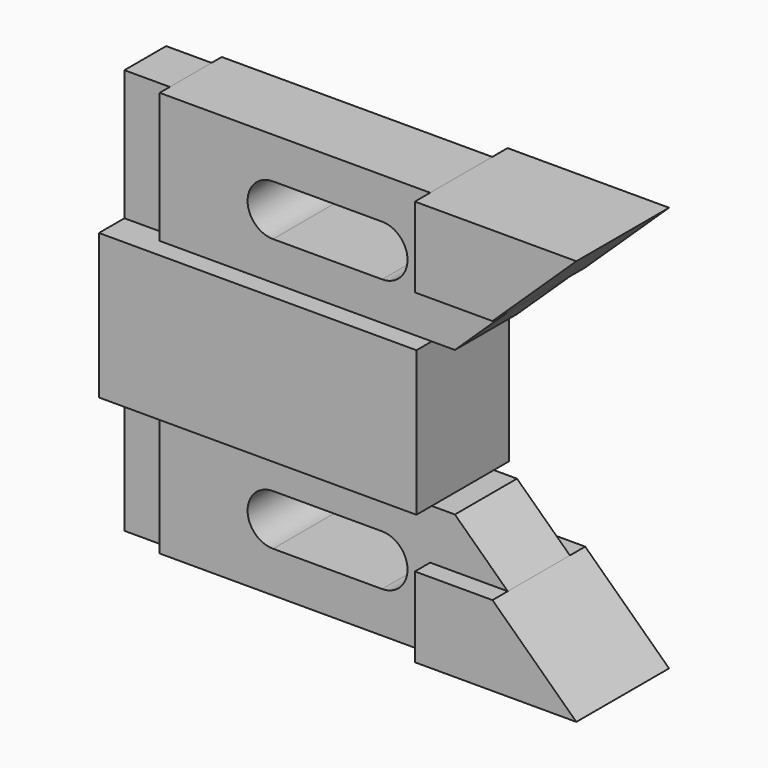
from build123d import *

# Parameters (mm, degrees)
F1_DEPTH = 12.7
F2_DEPTH = 8.509
F0_W     = 9.9534935624
F0_H     = 14.2875
F3_DEPTH = 5.715


with BuildPart() as f1:
    # F0 (on Front) → F1 (new body, symmetric)
    with BuildSketch(Plane.XZ):
        Polygon((34.4515740871, 18.9865), (51.4656116075, 18.9865), (69.85, 36.5125), (34.4515740871, 36.5125), align=None)
    extrude(amount=F1_DEPTH, both=True)


with BuildPart() as f1b:
    # F0 (on Front) → F1, piece 2 (new body, symmetric)
    with BuildSketch(Plane.XZ):
        Polygon((-24.8445064376, 7.9375), (-34.798, 7.9375), (-34.798, -7.9375), (34.798, -7.9375), (34.798, 7.9375), align=None)
    extrude(amount=F1_DEPTH, both=True)



with BuildPart() as f2:
    # F0 (on Front) → F2 (new body, symmetric)
    with BuildSketch(Plane.XZ):
        Polygon((-24.8445064376, 22.225), (-24.8445064376, 7.9375), (34.798, 7.9375), (39.8754537078, 7.9375), (51.4656116075, 18.9865), (34.4515740871, 18.9865), (34.4515740871, 36.5125), (-24.8445064376, 36.5125), align=None)
        with BuildLine():
            ThreePointArc((0, 16.3735247751), (-5.5676602225, 21.9411849976), (0, 27.50884522))
            Line((0, 27.50884522), (23.9166795551, 27.50884522))
            ThreePointArc((23.9166795551, 27.50884522), (27.8536098537, 25.8781152962), (29.4843397775, 21.9411849976))
            ThreePointArc((29.4843397775, 21.9411849976), (27.8536098537, 18.0042546989), (23.9166795551, 16.3735247751))
            Line((23.9166795551, 16.3735247751), (0, 16.3735247751))
        make_face(mode=Mode.SUBTRACT)
    extrude(amount=F2_DEPTH, both=True)


with BuildPart() as f3:
    # F0 (on Front) → F3 (new body, symmetric)
    with BuildSketch(Plane.XZ):
        with Locations((-29.8212532188, 29.36875)):
            Rectangle(F0_W, F0_H)
        with Locations((-29.8212532188, 15.08125)):
            Rectangle(F0_W, F0_H)
    extrude(amount=F3_DEPTH, both=True)


with BuildPart() as f1b_1:
    add(f1b.part)
    # F4: F3, F2, F1, F1b across face
    add(f3.part.mirror(Plane(origin=(0, 0, -7.9375), x_dir=(1, 0, 0), z_dir=(0, 0, -1))))
    add(f2.part.mirror(Plane(origin=(0, 0, -7.9375), x_dir=(1, 0, 0), z_dir=(0, 0, -1))))
    add(f1.part.mirror(Plane(origin=(0, 0, -7.9375), x_dir=(1, 0, 0), z_dir=(0, 0, -1))))
    add(f1b.part.mirror(Plane(origin=(0, 0, -7.9375), x_dir=(1, 0, 0), z_dir=(0, 0, -1))))


solid = Compound([f1.part, f2.part, f3.part, f1b_1.part])
